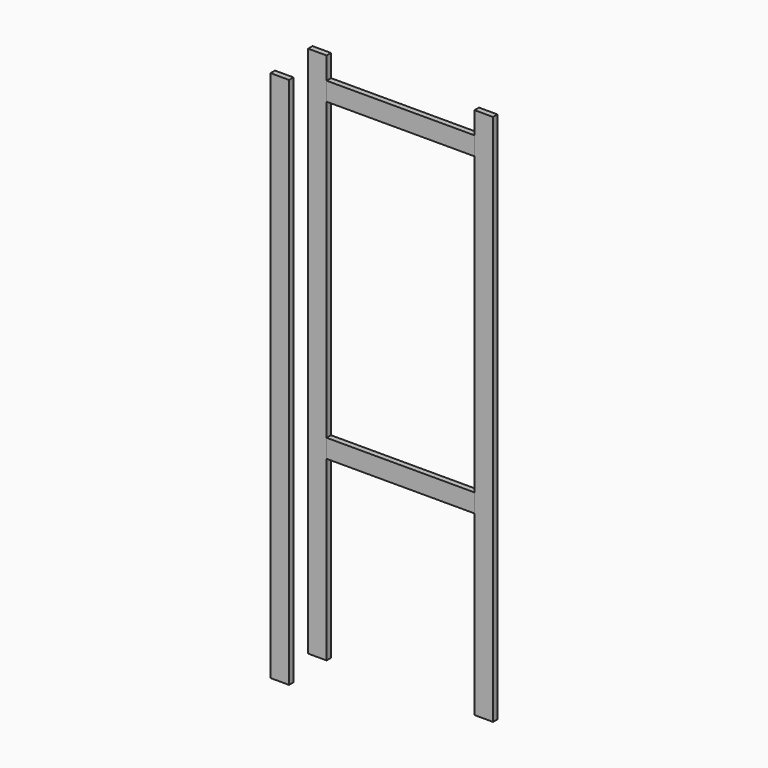
from build123d import *

# Parameters (mm, degrees)
F0_W     = 63.5
F0_H     = 19.05
F1_DEPTH = 1828.8
F2_DEPTH = 1828.8
F3_W     = 19.05
F3_H     = 63.5
F4_DEPTH = 508
F5_DEPTH = 508
F6_DEPTH = 1828.8


with BuildPart() as f1:
    # F0 (on Top) → F1 (new body)
    with BuildSketch(Plane.XY):
        with Locations((-41.980549, 9.525)):
            Rectangle(F0_W, F0_H)
    extrude(amount=F1_DEPTH)


with BuildPart() as f2:
    # F0 (on Top) → F2 (new body)
    with BuildSketch(Plane.XY):
        with Locations((529.519451, 9.525)):
            Rectangle(F0_W, F0_H)
    extrude(amount=F2_DEPTH)


with BuildPart() as f4:
    # F3 (on face) → F4 (new body, through all)
    with BuildSketch(Plane(origin=(497.769451, 0, 0), x_dir=(0, -1, 0), z_dir=(-1, 0, 0))):
        with Locations((-9.525, 1720.85)):
            Rectangle(F3_W, F3_H)
    extrude(amount=F4_DEPTH)


with BuildPart() as f5:
    # F3 (on face) → F5 (new body, through all)
    with BuildSketch(Plane(origin=(497.769451, 0, 0), x_dir=(0, -1, 0), z_dir=(-1, 0, 0))):
        with Locations((-9.525, 641.35)):
            Rectangle(F3_W, F3_H)
    extrude(amount=F5_DEPTH)


with BuildPart() as f6:
    # F0 (on Top) → F6 (new body)
    with BuildSketch(Plane.XY):
        with Locations((-31.75, -164.3119)):
            Rectangle(F0_W, F0_H)
    extrude(amount=F6_DEPTH)


solid = Compound([f1.part, f2.part, f4.part, f5.part, f6.part])
